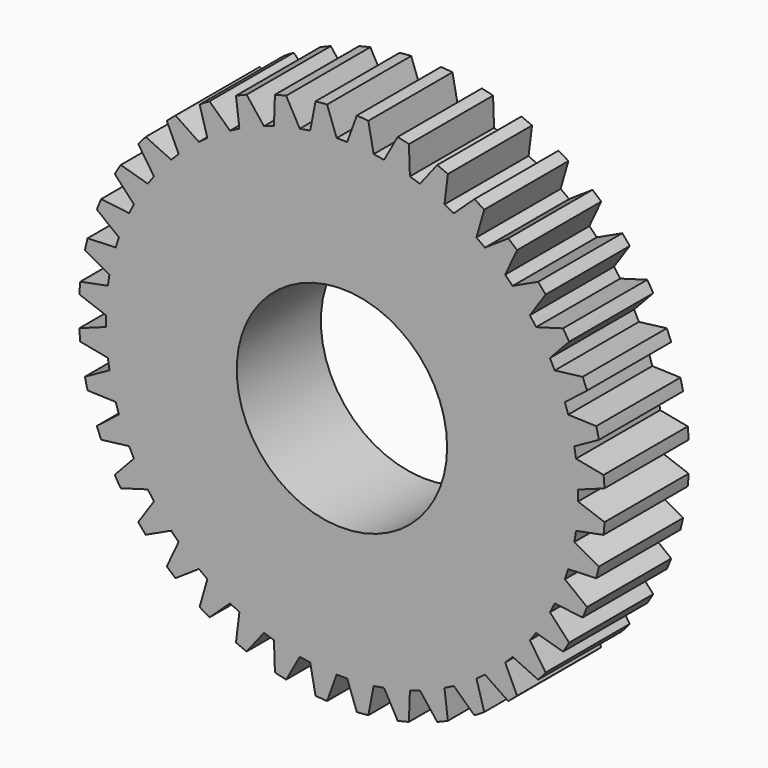
from build123d import *

# Parameters (mm, degrees)
F0_R     = 25
F0_R_2   = 10
F1_DEPTH = 10
F3_DEPTH = 25
F4_COUNT = 40


with BuildPart() as f1:
    # F0 (on Front) → F1 (new body)
    with BuildSketch(Plane.XZ):
        Circle(F0_R)
        Circle(F0_R_2, mode=Mode.SUBTRACT)
    extrude(amount=F1_DEPTH)

    # F2 (on face) → F3 (cut)
    with BuildSketch(Plane.XZ.offset(10)):
        with BuildLine():
            Line((-0.5, 22.45), (0, 22.45))
            Line((0, 22.45), (0.5, 22.45))
            Line((0.5, 22.45), (1.4135669538, 24.9600045767))
            ThreePointArc((1.4135669538, 24.9600045767), (0, 25), (-1.4135669538, 24.9600045767))
            Line((-1.4135669538, 24.9600045767), (-0.5, 22.45))
        make_face()
    f3 = extrude(amount=-F3_DEPTH, mode=Mode.SUBTRACT)

    # F4: F3 ×40 about axis
    f4_axis = Axis((0, 0, 0), (0, 1, 0))
    for i in range(1, F4_COUNT):
        add(f3.rotate(f4_axis, i * 360 / F4_COUNT), mode=Mode.SUBTRACT)


solid = f1.part
